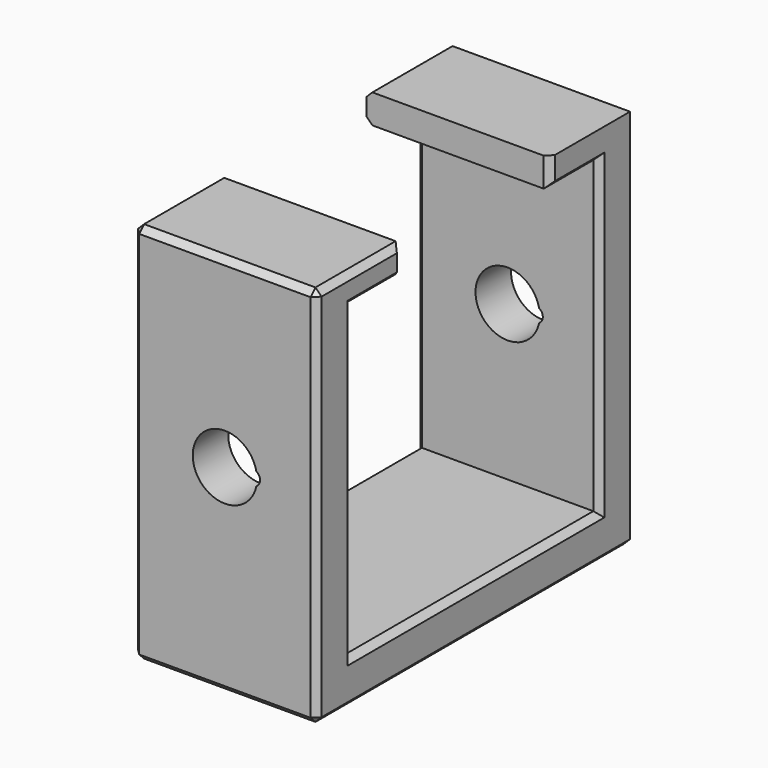
from build123d import *

# Parameters (mm, degrees)
CYLINDER005_R         = 0.5
CYLINDER005_DEPTH     = 38
CYLINDER004_R         = 2.1
CYLINDER004_DEPTH     = 38
BOX008_W              = 12
BOX008_H              = 12.1
BOX008_DEPTH          = 10
BOX006_W              = 12
BOX006_H              = 20.2
BOX006_DEPTH          = 20.2
BOX007_W              = 12
BOX007_H              = 26
BOX007_DEPTH          = 25
CHAMFER005013003_SIZE = 0.4


with BuildPart() as cylinder005:
    # Cylinder005 → Cylinder005 (new body)
    with BuildSketch(Plane(origin=(7.8, -18, 0), x_dir=(1, 0, 0), z_dir=(0, 1, 0))):
        Circle(CYLINDER005_R)
    extrude(amount=CYLINDER005_DEPTH)


with BuildPart() as fusion002:
    # Cylinder004 → Cylinder004 (new body)
    with BuildSketch(Plane(origin=(6, -18, 0), x_dir=(1, 0, 0), z_dir=(0, 1, 0))):
        Circle(CYLINDER004_R)
    extrude(amount=CYLINDER004_DEPTH)

    # Fusion002: union Cylinder005
    add(cylinder005.part)


with BuildPart() as cube008:
    # Box008 → Box008 (new body)
    with BuildSketch(Plane(origin=(0, -6.05, 4), x_dir=(1, 0, 0), z_dir=(0, 0, 1))):
        with Locations((6, 6.05)):
            Rectangle(BOX008_W, BOX008_H)
    extrude(amount=BOX008_DEPTH)


with BuildPart() as cube006:
    # Box006 → Box006 (new body)
    with BuildSketch(Plane(origin=(0, -10.1, -10.1), x_dir=(1, 0, 0), z_dir=(0, 0, 1))):
        with Locations((6, 10.1)):
            Rectangle(BOX006_W, BOX006_H)
    extrude(amount=BOX006_DEPTH)


with BuildPart() as chamfer005013003:
    # Box007 → Box007 (new body)
    with BuildSketch(Plane(origin=(0, -13, -13), x_dir=(1, 0, 0), z_dir=(0, 0, 1))):
        with Locations((6, 13)):
            Rectangle(BOX007_W, BOX007_H)
    extrude(amount=BOX007_DEPTH)

    # Cut002: cut Cube006
    add(cube006.part, mode=Mode.SUBTRACT)

    # Cut003: cut Cube008
    add(cube008.part, mode=Mode.SUBTRACT)

    # Cut004: cut Fusion002
    add(fusion002.part, mode=Mode.SUBTRACT)

    # Chamfer005013003
    chamfer005013003_edges = [chamfer005013003.edges().sort_by_distance(p)[0] for p in [
        (0, -9.525, 12),
        (0, -8.075, 10.1),
        (0, -10.1, 0),
        (0, 0, -10.1),
        (0, 10.1, 0),
        (0, 8.075, 10.1),
        (0, 9.525, 12),
        (0, 13, -0.5),
        (0, 0, -13),
        (0, -13, -0.5),
        (12, -9.525, 12),
        (6, -13, 12),
        (12, -6.05, 11.05),
        (12, -8.075, 10.1),
        (12, -10.1, 0),
        (12, 0, -10.1),
        (12, 10.1, 0),
        (12, 8.075, 10.1),
        (12, 6.05, 11.05),
        (6, 13, 12),
        (6, 13, -13),
        (12, 13, -0.5),
        (12, 0, -13),
        (6, -13, -13),
        (12, -13, -0.5),
    ]]
    chamfer(chamfer005013003_edges, length=CHAMFER005013003_SIZE)


solid = chamfer005013003.part
